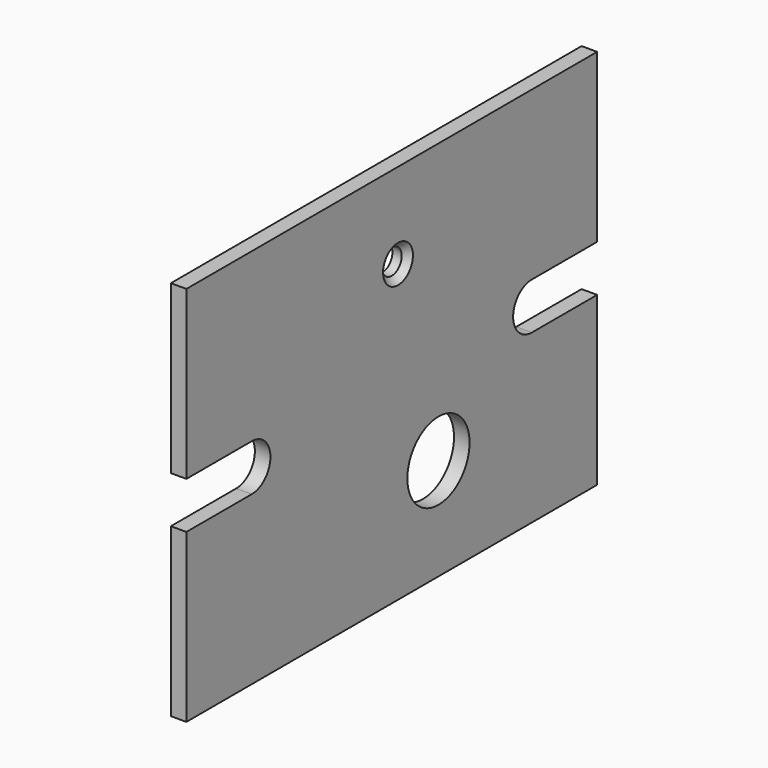
from build123d import *

# Parameters (mm, degrees)
CYLINDER003_R          = 1.6
CYLINDER003_DEPTH      = 10
FUSION_PLACEMENT_ANGLE = 90
BOX002_W               = 12
BOX002_H               = 10
BOX002_DEPTH           = 6
BOX001_W               = 12
BOX001_H               = 10
BOX001_DEPTH           = 6
CYLINDER002_R          = 3
CYLINDER002_DEPTH      = 10
CYLINDER001_R          = 5
CYLINDER001_DEPTH      = 10
CYLINDER_R             = 3
CYLINDER_DEPTH         = 10
BOX_W                  = 66
BOX_H                  = 2
BOX_DEPTH              = 49


with BuildPart() as zylinder003:
    # Cylinder003 → Cylinder003 (new body)
    with BuildSketch(Plane.XY.offset(-6)):
        Circle(CYLINDER003_R)
    extrude(amount=CYLINDER003_DEPTH)


with BuildPart() as fusion:
    # Cone003 → Cone003 (revolve)
    with BuildSketch(Plane.XZ):
        Polygon((0, 0), (4, 4), (0, 4), align=None)
    revolve(axis=Axis((0, 0, 0), (0, 0, 1)))

    # Fusion: union Zylinder003
    add(zylinder003.part)


with BuildPart() as fusion_1:
    # Fusion placement: moved
    add(fusion.part.moved(Location((-2.4, 34, 9))).rotate(Axis((-2.4, 34, 9), (0, 1, 0)), FUSION_PLACEMENT_ANGLE))


with BuildPart() as obj1:
    # Box002 → Box002 (new body)
    with BuildSketch(Plane(origin=(4, 67.5, -1.5), x_dir=(0, -1, 0), z_dir=(0, 0, -1))):
        with Locations((6, 5)):
            Rectangle(BOX002_W, BOX002_H)
    extrude(amount=BOX002_DEPTH)


with BuildPart() as obj2:
    # Box001 → Box001 (new body)
    with BuildSketch(Plane(origin=(3, 10.5, -1.5), x_dir=(0, -1, 0), z_dir=(0, 0, -1))):
        with Locations((6, 5)):
            Rectangle(BOX001_W, BOX001_H)
    extrude(amount=BOX001_DEPTH)


with BuildPart() as zylinder002:
    # Cylinder002 → Cylinder002 (new body)
    with BuildSketch(Plane(origin=(-5.5, 55.5, -4.5), x_dir=(0, 0, -1), z_dir=(1, 0, 0))):
        Circle(CYLINDER002_R)
    extrude(amount=CYLINDER002_DEPTH)


with BuildPart() as zylinder001:
    # Cylinder001 → Cylinder001 (new body)
    with BuildSketch(Plane(origin=(-5, 40.5, -15.9), x_dir=(0, 0, -1), z_dir=(1, 0, 0))):
        Circle(CYLINDER001_R)
    extrude(amount=CYLINDER001_DEPTH)


with BuildPart() as zylinder:
    # Cylinder → Cylinder (new body)
    with BuildSketch(Plane(origin=(-5.5, 10.5, -4.5), x_dir=(0, 0, -1), z_dir=(1, 0, 0))):
        Circle(CYLINDER_R)
    extrude(amount=CYLINDER_DEPTH)


with BuildPart() as cut005:
    # Box → Box (new body)
    with BuildSketch(Plane(origin=(0, 66, 20), x_dir=(0, -1, 0), z_dir=(0, 0, -1))):
        with Locations((33, 1)):
            Rectangle(BOX_W, BOX_H)
    extrude(amount=BOX_DEPTH)

    # Cut: cut Zylinder
    add(zylinder.part, mode=Mode.SUBTRACT)

    # Cut001: cut Zylinder001
    add(zylinder001.part, mode=Mode.SUBTRACT)

    # Cut002: cut Zylinder002
    add(zylinder002.part, mode=Mode.SUBTRACT)

    # Cut003: cut obj2
    add(obj2.part, mode=Mode.SUBTRACT)

    # Cut004: cut obj1
    add(obj1.part, mode=Mode.SUBTRACT)

    # Cut005: cut Fusion
    add(fusion_1.part, mode=Mode.SUBTRACT)


solid = cut005.part
